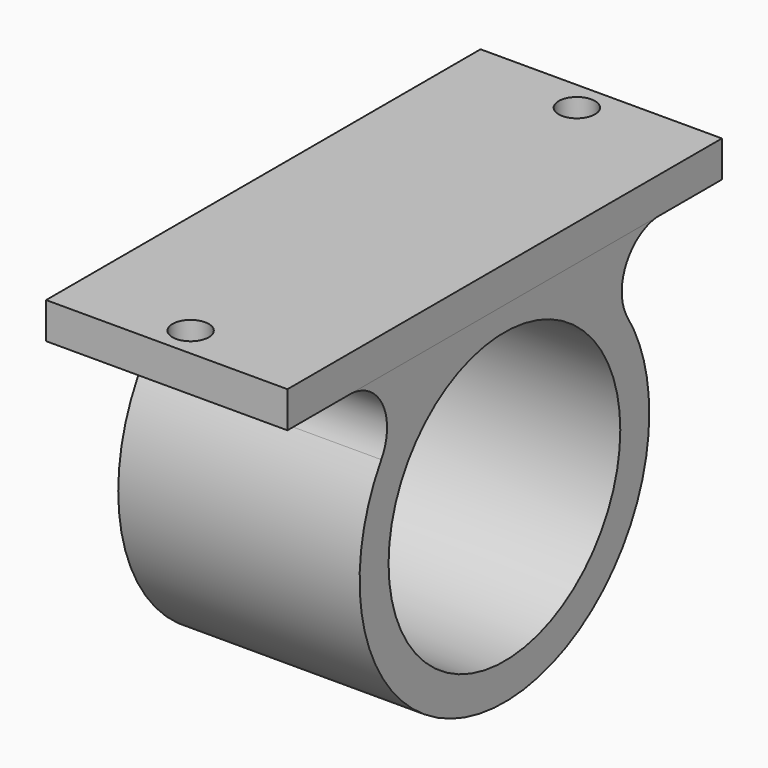
from build123d import *

# Parameters (mm, degrees)
SKETCH_R     = 15
SKETCH_R_2   = 12
PAD_DEPTH    = 20
SKETCH001_W  = 20
SKETCH001_H  = 45
PAD001_DEPTH = 3
SKETCH002_R  = 1.5
POCKET_DEPTH = 5
FILLET_R     = 4


with BuildPart() as part:
    # Sketch → Pad (new body)
    with BuildSketch(Plane.YZ):
        Circle(SKETCH_R)
        Circle(SKETCH_R_2, mode=Mode.SUBTRACT)
    extrude(amount=PAD_DEPTH)

    # Sketch001 (on DatumPlane) → Pad001 (join)
    with BuildSketch(Plane.XY.offset(17)):
        with Locations((10.021344, 0)):
            Rectangle(SKETCH001_W, SKETCH001_H)
    extrude(amount=-PAD001_DEPTH)

    # Sketch002 (on Face10 of Pad001) → Pocket (cut)
    with BuildSketch(Plane(origin=(0, 0, 17), x_dir=(0, -1, 0), z_dir=(0, 0, 1))):
        with Locations((-20, 10)):
            Circle(SKETCH002_R)
        with Locations((20, 10)):
            Circle(SKETCH002_R)
    extrude(amount=-POCKET_DEPTH, mode=Mode.SUBTRACT)

    # Fillet
    fillet_edges = [part.edges().sort_by_distance(p)[0] for p in [
        (10.010672, -5.385165, 14),
        (10.010672, 5.385165, 14),
    ]]
    fillet(fillet_edges, radius=FILLET_R)


solid = part.part
